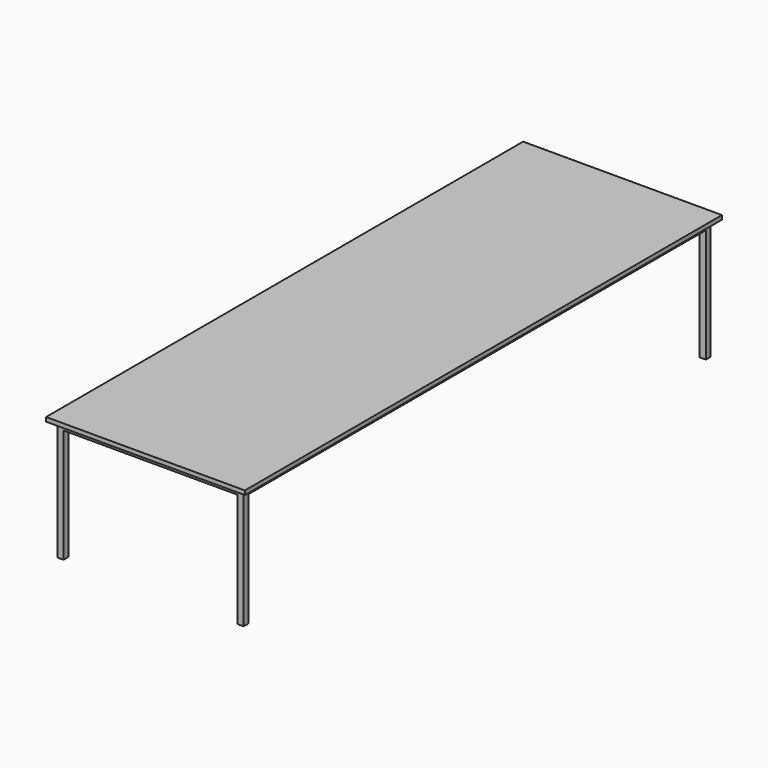
from build123d import *

# Parameters (mm, degrees)
F0_W     = 1143
F0_H     = 3581.4
F0_W_2   = 1066.8
F0_H_2   = 3505.2
F1_DEPTH = 38.1
F2_W     = 38.1
F2_H     = 38.1
F3_DEPTH = 698.5
F4_W     = 1219.2
F4_H     = 3657.6
F5_DEPTH = 25.4


with BuildPart() as f1:
    # F0 (on Top) → F1 (new body)
    with BuildSketch(Plane.XY):
        Rectangle(F0_W, F0_H)
        Rectangle(F0_W_2, F0_H_2, mode=Mode.SUBTRACT)
    extrude(amount=F1_DEPTH)

    # F2 (on face) → F3 (join)
    with BuildSketch(Plane(origin=(0, 0, 0), x_dir=(1, 0, 0), z_dir=(0, 0, -1))):
        with Locations((-552.45, 1771.65)):
            Rectangle(F2_W, F2_H)
        with Locations((552.45, 1771.65)):
            Rectangle(F2_W, F2_H)
        with Locations((-552.45, -1771.65)):
            Rectangle(F2_W, F2_H)
        with Locations((552.45, -1771.65)):
            Rectangle(F2_W, F2_H)
    extrude(amount=F3_DEPTH)

    # F4 (on face) → F5 (join)
    with BuildSketch(Plane.XY.offset(38.1)):
        Rectangle(F4_W, F4_H)
    extrude(amount=F5_DEPTH)


solid = f1.part
